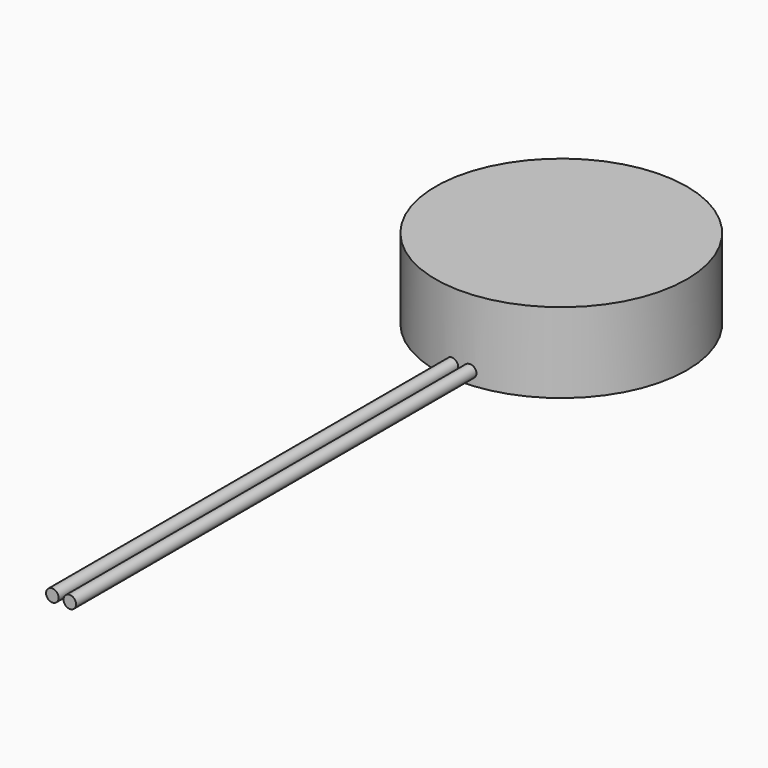
from build123d import *

# Parameters (mm, degrees)
F0_R     = 5.025
F1_DEPTH = 3.2
F2_R     = 0.25
F3_DEPTH = 25


with BuildPart() as f1:
    # F0 (on Top) → F1 (new body)
    with BuildSketch(Plane.XY):
        Circle(F0_R)
    extrude(amount=F1_DEPTH)

    # F2 (on Front) → F3 (join)
    with BuildSketch(Plane.XZ):
        with Locations((-0.35, 0.486192)):
            Circle(F2_R)
        with Locations((0.35, 0.486192)):
            Circle(F2_R)
    extrude(amount=F3_DEPTH)


solid = f1.part
